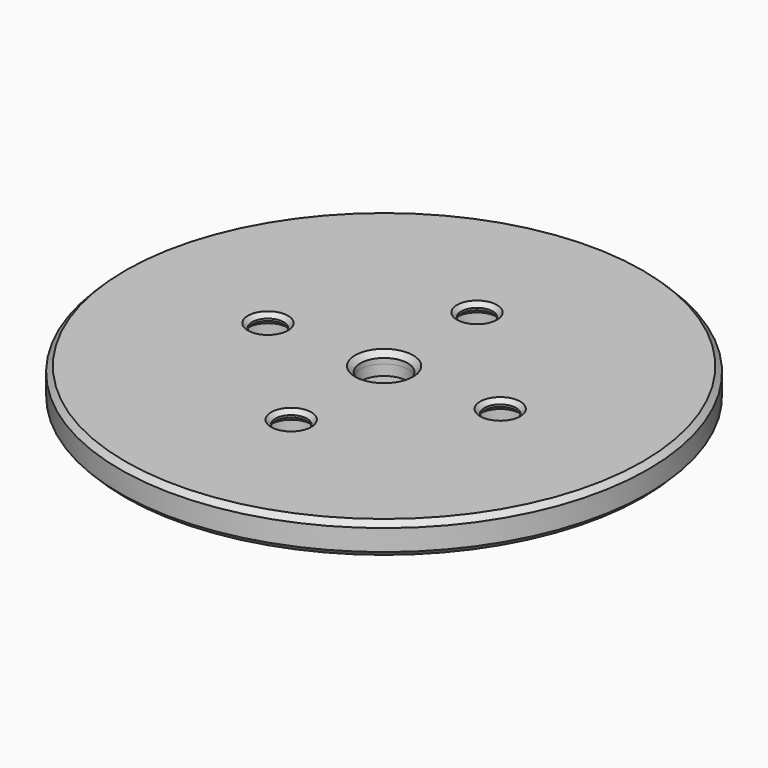
from build123d import *

# Parameters (mm, degrees)
SKETCH_R             = 25
SKETCH_R_2           = 1.5
PAD_DEPTH            = 3
SKETCH002_R          = 2.25
POCKET_DEPTH         = 2
SKETCH001_R          = 5
POCKET001_DEPTH      = 1
SKETCH003_R          = 2.5
POCKET002_DEPTH      = 2
POCKET002_FACE17_R   = 5
POCKET002_FACE17_R_2 = 2.25
PAD001_DEPTH         = 1
CHAMFER_SIZE         = 0.4
CHAMFER001_SIZE      = 0.5
CHAMFER002_SIZE      = 0.4
CHAMFER003_SIZE      = 0.5
CHAMFER004_SIZE      = 0.5


with BuildPart() as part:
    # Sketch → Pad (new body)
    with BuildSketch(Plane.XY):
        Circle(SKETCH_R)
        with Locations((0, 11)):
            Circle(SKETCH_R_2, mode=Mode.SUBTRACT)
        with Locations((-11, 0)):
            Circle(SKETCH_R_2, mode=Mode.SUBTRACT)
        with Locations((0, -11)):
            Circle(SKETCH_R_2, mode=Mode.SUBTRACT)
        with Locations((11, 0)):
            Circle(SKETCH_R_2, mode=Mode.SUBTRACT)
    extrude(amount=PAD_DEPTH)

    # Sketch002 (on Face7 of Pad) → Pocket (cut)
    with BuildSketch(Plane.XY.offset(3)):
        Circle(SKETCH002_R)
    extrude(amount=-POCKET_DEPTH, mode=Mode.SUBTRACT)

    # Sketch001 (on Face7 of Pad) → Pocket001 (cut)
    with BuildSketch(Plane.XY.offset(3)):
        Circle(SKETCH001_R)
    extrude(amount=-POCKET001_DEPTH, mode=Mode.SUBTRACT)

    # Sketch003 (on Face2 of Pocket001) → Pocket002 (cut)
    with BuildSketch(Plane(origin=(0, 0, 0), x_dir=(1, 0, 0), z_dir=(0, 0, -1))):
        with Locations((0, 11)):
            Circle(SKETCH003_R)
        with Locations((11, 0)):
            Circle(SKETCH003_R)
        with Locations((0, -11)):
            Circle(SKETCH003_R)
        with Locations((-11, 0)):
            Circle(SKETCH003_R)
    extrude(amount=-POCKET002_DEPTH, mode=Mode.SUBTRACT)

    # Pocket002 Face17 → Pad001 (add)
    with BuildSketch(Plane(origin=(0, 0, 2), x_dir=(0, 1, 0), z_dir=(0, 0, 1))):
        Circle(POCKET002_FACE17_R)
        Circle(POCKET002_FACE17_R_2, mode=Mode.SUBTRACT)
    extrude(amount=PAD001_DEPTH)

    # Chamfer
    chamfer_edges = [part.edges().sort_by_distance(p)[0] for p in [
        (-1.5, -11, 3),
        (-12.5, 0, 3),
        (-1.5, 11, 3),
        (9.5, 0, 3),
    ]]
    chamfer(chamfer_edges, length=CHAMFER_SIZE)

    # Chamfer001
    chamfer001_edges = [part.edges().sort_by_distance(p)[0] for p in [
        (-2.25, 0, 3),
    ]]
    chamfer(chamfer001_edges, length=CHAMFER001_SIZE)

    # Chamfer002
    chamfer002_edges = [part.edges().sort_by_distance(p)[0] for p in [
        (9.5, 0, 2),
        (-1.5, -11, 2),
        (-12.5, 0, 2),
        (-1.5, 11, 2),
    ]]
    chamfer(chamfer002_edges, length=CHAMFER002_SIZE)

    # Chamfer003
    chamfer003_edges = [part.edges().sort_by_distance(p)[0] for p in [
        (-2.5, -11, 0),
        (8.5, 0, 0),
        (-13.5, 0, 0),
        (-2.5, 11, 0),
    ]]
    chamfer(chamfer003_edges, length=CHAMFER003_SIZE)

    # Chamfer004
    chamfer004_edges = [part.edges().sort_by_distance(p)[0] for p in [
        (-25, 0, 0),
        (-25, 0, 3),
    ]]
    chamfer(chamfer004_edges, length=CHAMFER004_SIZE)


solid = part.part
